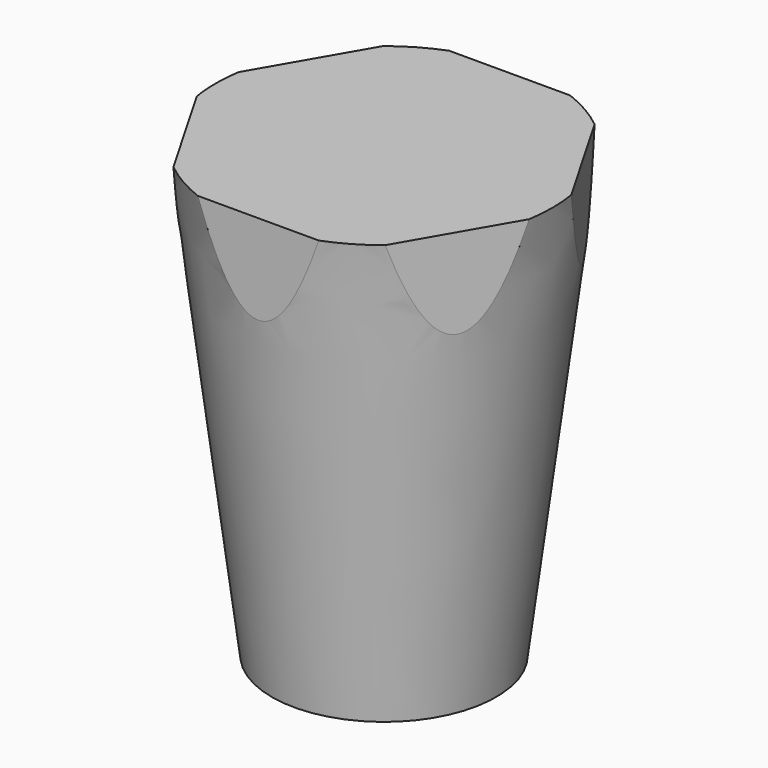
from build123d import *

# Parameters (mm, degrees)
F3_DEPTH = 10


with BuildPart() as f1:
    # F0 (on Front) → F1 (revolve)
    with BuildSketch(Plane.XZ):
        Polygon((-10, 0), (0, 0), (0, 40), (-15, 40), align=None)
    revolve(axis=Axis((0, 0, 20), (0, 0, -1)))

    # F2 (on face) → F3 (cut)
    with BuildSketch(Plane.XY.offset(40)):
        with BuildLine():
            Line((-9.4317732494, -11.6636895265), (-14.8169380565, -2.3363104735))
            ThreePointArc((-14.8169380565, -2.3363104735), (-12.9903810568, -7.5), (-9.4317732494, -11.6636895265))
        make_face()
        with BuildLine():
            Line((-14.8169380565, 2.3363104735), (-9.4317732494, 11.6636895265))
            ThreePointArc((-9.4317732494, 11.6636895265), (-12.9903810568, 7.5), (-14.8169380565, 2.3363104735))
        make_face()
        with BuildLine():
            Line((-5.3851648071, 14), (5.3851648071, 14))
            ThreePointArc((5.3851648071, 14), (0, 15), (-5.3851648071, 14))
        make_face()
        with BuildLine():
            ThreePointArc((14.8169380565, 2.3363104735), (12.9903810568, 7.5), (9.4317732494, 11.6636895265))
            Line((9.4317732494, 11.6636895265), (14.8169380565, 2.3363104735))
        make_face()
        with BuildLine():
            ThreePointArc((9.4317732494, -11.6636895265), (12.9903810568, -7.5), (14.8169380565, -2.3363104735))
            Line((14.8169380565, -2.3363104735), (9.4317732494, -11.6636895265))
        make_face()
        with BuildLine():
            Line((5.3851648071, -14), (-5.3851648071, -14))
            ThreePointArc((-5.3851648071, -14), (0, -15), (5.3851648071, -14))
        make_face()
    extrude(amount=-F3_DEPTH, mode=Mode.SUBTRACT)


solid = f1.part
